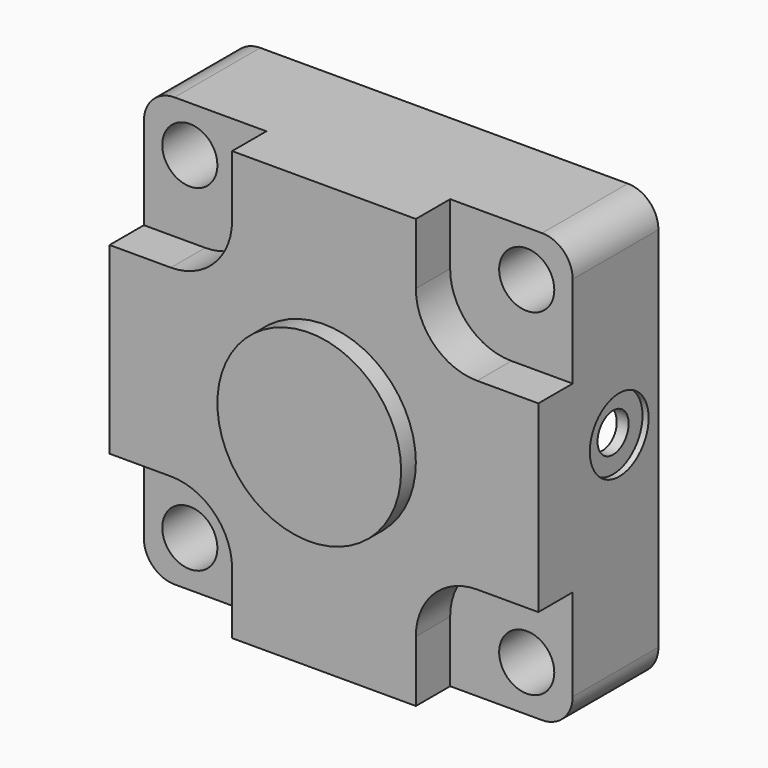
from build123d import *

# Parameters (mm, degrees)
F0_R      = 9
F1_DEPTH  = 24.5
F2_R      = 9
F3_DEPTH  = 14
F4_R      = 30
F5_DEPTH  = 6
F6_R      = 64.5
F8_DEPTH  = 30
F7_R      = 12
F7_R_2    = 6.35
F9_DEPTH  = 2
F10_DEPTH = 8


with BuildPart() as f1:
    # F0 (on Front) → F1 (new body, symmetric)
    with BuildSketch(Plane.XZ):
        with BuildLine():
            Line((-60, -70), (60, -70))
            ThreePointArc((60, -70), (67.0710678119, -67.0710678119), (70, -60))
            Line((70, -60), (70, 60))
            ThreePointArc((70, 60), (67.0710678119, 67.0710678119), (60, 70))
            Line((60, 70), (-60, 70))
            ThreePointArc((-60, 70), (-67.0710678119, 67.0710678119), (-70, 60))
            Line((-70, 60), (-70, -60))
            ThreePointArc((-70, -60), (-67.0710678119, -67.0710678119), (-60, -70))
        make_face()
        with Locations((-55, -55)):
            Circle(F0_R, mode=Mode.SUBTRACT)
        with Locations((55, -55)):
            Circle(F0_R, mode=Mode.SUBTRACT)
        with Locations((-55, 55)):
            Circle(F0_R, mode=Mode.SUBTRACT)
        with Locations((55, 55)):
            Circle(F0_R, mode=Mode.SUBTRACT)
    extrude(amount=F1_DEPTH, both=True)

    # F2 (on face) → F3 (cut)
    with BuildSketch(Plane.XZ.offset(24.5)):
        with BuildLine():
            Line((30, -50), (30, -70))
            Line((30, -70), (60, -70))
            ThreePointArc((60, -70), (67.0710678119, -67.0710678119), (70, -60))
            Line((70, -60), (70, -30))
            Line((70, -30), (50, -30))
            ThreePointArc((50, -30), (35.8578643763, -35.8578643763), (30, -50))
        make_face()
        with Locations((55, -55)):
            Circle(F2_R, mode=Mode.SUBTRACT)
        with BuildLine():
            Line((60, 70), (30, 70))
            Line((30, 70), (30, 50))
            ThreePointArc((30, 50), (35.8578643763, 35.8578643763), (50, 30))
            Line((50, 30), (70, 30))
            Line((70, 30), (70, 60))
            ThreePointArc((70, 60), (67.0710678119, 67.0710678119), (60, 70))
        make_face()
        with Locations((55, 55)):
            Circle(F2_R, mode=Mode.SUBTRACT)
        with BuildLine():
            Line((-70, 60), (-70, 30))
            Line((-70, 30), (-50, 30))
            ThreePointArc((-50, 30), (-35.8578643763, 35.8578643763), (-30, 50))
            Line((-30, 50), (-30, 70))
            Line((-30, 70), (-60, 70))
            ThreePointArc((-60, 70), (-67.0710678119, 67.0710678119), (-70, 60))
        make_face()
        with Locations((-55, 55)):
            Circle(F2_R, mode=Mode.SUBTRACT)
        with BuildLine():
            Line((-50, -30), (-70, -30))
            Line((-70, -30), (-70, -60))
            ThreePointArc((-70, -60), (-67.0710678119, -67.0710678119), (-60, -70))
            Line((-60, -70), (-30, -70))
            Line((-30, -70), (-30, -50))
            ThreePointArc((-30, -50), (-35.8578643763, -35.8578643763), (-50, -30))
        make_face()
        with Locations((-55, -55)):
            Circle(F2_R, mode=Mode.SUBTRACT)
    extrude(amount=-F3_DEPTH, mode=Mode.SUBTRACT)

    # F4 (on face) → F5 (join)
    with BuildSketch(Plane.XZ.offset(24.5)):
        Circle(F4_R)
    extrude(amount=F5_DEPTH)

    # F6 (on face) → F8 (cut)
    with BuildSketch(Plane(origin=(0, 24.5, 0), x_dir=(-1, 0, 0), z_dir=(0, 1, 0))):
        Circle(F6_R)
    extrude(amount=-F8_DEPTH, mode=Mode.SUBTRACT)

    # F7 (on face) → F9 (cut)
    with BuildSketch(Plane.YZ.offset(70)):
        with Locations((8.5, 7.547759451)):
            Circle(F7_R)
        with Locations((8.5, 7.547759451)):
            Circle(F7_R_2, mode=Mode.SUBTRACT)
    extrude(amount=-F9_DEPTH, mode=Mode.SUBTRACT)

    # F10 (cut): a face of the model
    f10_faces = [f1.faces().sort_by_distance(p)[0] for p in [
        (70, 8.5, 7.547759451),
    ]]
    extrude(f10_faces, amount=-F10_DEPTH, mode=Mode.SUBTRACT)


solid = f1.part
